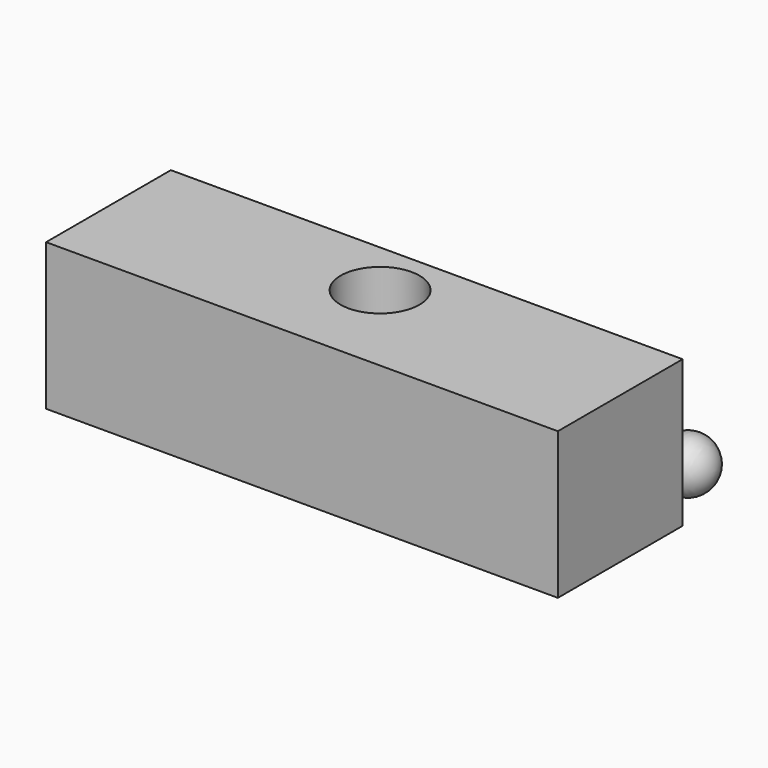
from build123d import *

# Parameters (mm, degrees)
F0_W     = 300
F0_H     = 91.416467
F1_DEPTH = 86
F2_R     = 23.117095
F3_DEPTH = 146


with BuildPart() as f1:
    # F0 (on Top) → F1 (new body)
    with BuildSketch(Plane.XY):
        with Locations((-150, -45.708233)):
            Rectangle(F0_W, F0_H)
    extrude(amount=F1_DEPTH)

    # F2 (on face) → F3 (cut)
    with BuildSketch(Plane.XY.offset(86)):
        with Locations((-150.891542, -33.097982)):
            Circle(F2_R)
    extrude(amount=-F3_DEPTH, mode=Mode.SUBTRACT)


with BuildPart() as f5:
    # F4 (on Top) → F5 (revolve)
    with BuildSketch(Plane.XY):
        with BuildLine():
            Line((-51.898788, 49.368419), (-20.801683, 49.368419))
            ThreePointArc((-20.801683, 49.368419), (-36.350235, 64.916971), (-51.898788, 49.368419))
        make_face()
    revolve(axis=Axis((-36.350235, 49.368419, 0), (1, 0, 0)))


solid = Compound([f1.part, f5.part])
